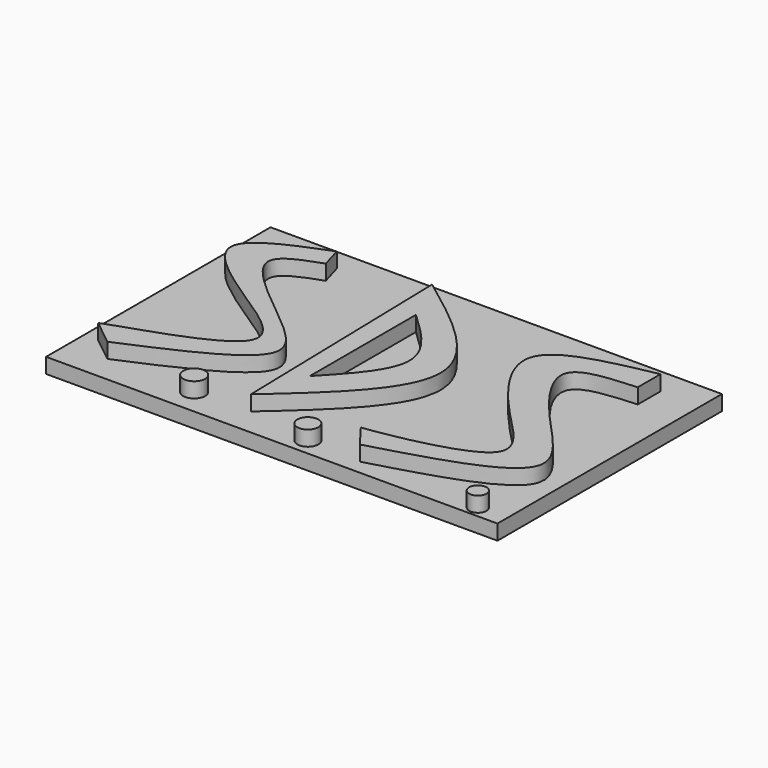
from build123d import *

# Parameters (mm, degrees)
F3_DEPTH = 12.7
F4_DEPTH = 12.7
F5_DEPTH = 12.7
F6_W     = 189.4590184093
F6_H     = 117.7560687065
F7_DEPTH = 6.35
F8_R     = 4.6041811727
F8_R_2   = 4.424061419
F8_R_3   = 3.6468937029
F9_DEPTH = 6.35


with BuildPart() as f3:
    # F0 (on Top) → F3 (new body)
    with BuildSketch(Plane.XY):
        with BuildLine():
            Line((-59.4609826803, 36.288689822), (-62.0842650533, 45.3244261444))
            add(Edge.make_bspline(
                [(-62.0842650533, 45.3244261444), (-76.3669330782, 39.6868441897), (-105.7448762698, 28.0909321294), (-64.4918275462, 0.7228788045), (-24.7548755706, -25.0754315136), (-93.4949776884, -42.5917245464), (-91.1362632101, -43.5001144041), (-90.9403264523, -43.5755737126)],
                knots=[0, 0, 0, 0, 0.2335267828, 0.480339986, 0.6931834494, 0.9745129643, 1, 1, 1, 1], degree=3))
            Line((-90.9403264523, -43.5755737126), (-80.7386860251, -51.7368838191))
            add(Edge.make_bspline(
                [(-59.4609826803, 36.288689822), (-67.4253888039, 33.4956167621), (-87.5836308704, 26.4262330595), (-42.3735586434, -5.2578557722), (-23.9135235399, -27.3126732704), (-58.9828392703, -42.3859315549), (-80.7386860251, -51.7368838191)],
                knots=[0, 0, 0, 0, 0.1900652595, 0.4810630511, 0.6780686335, 1, 1, 1, 1], degree=3))
        make_face()
    extrude(amount=F3_DEPTH)


with BuildPart() as f4:
    # F1 (on Top) → F4 (new body)
    with BuildSketch(Plane.XY):
        with BuildLine():
            add(Edge.make_bspline(
                [(-23.0265576392, 46.4903302491), (-2.6472799904, 31.3247734038), (38.4919362924, 0.7103849129), (-0.8445311949, -33.9532307058), (-20.6947550178, -51.4454096556)],
                knots=[0, 0, 0, 0, 0.4953735022, 1, 1, 1, 1], degree=3))
            Line((-23.0265576392, 46.4903302491), (-20.6947550178, -51.4454096556))
        make_face()
        with BuildLine():
            Line((-13.6993452907, -29.2932782322), (-13.6993452907, 26.3785235584))
            add(Edge.make_bspline(
                [(-13.6993452907, 26.3785235584), (-4.4824398683, 17.7391465856), (14.2904119764, 0.1425958444), (-4.2577650903, -19.3638900203), (-13.6993452907, -29.2932782322)],
                knots=[0, 0, 0, 0, 0.4909699122, 1, 1, 1, 1], degree=3))
        make_face(mode=Mode.SUBTRACT)
    extrude(amount=F4_DEPTH)


with BuildPart() as f5:
    # F2 (on Top) → F5 (new body)
    with BuildSketch(Plane.XY):
        with BuildLine():
            Line((75.2006545663, 31.6250808537), (75.2006545663, 43.5755737126))
            add(Edge.make_bspline(
                [(75.2006545663, 43.5755737126), (56.5777478813, 39.8688188665), (20.0832153378, 32.6048461876), (51.7347867803, -8.9273077443), (85.7886877069, -38.0543402289), (26.1027467349, -47.0160293906), (22.1521314234, -47.3647527397)],
                knots=[0, 0, 0, 0, 0.2555612663, 0.5008127413, 0.7055319989, 0.9705506898, 0.9705506898, 0.9705506898, 0.9705506898], degree=3))
            Line((22.1521314234, -47.3647527397), (29.439015314, -56.9834411144))
            add(Edge.make_bspline(
                [(75.2006545663, 31.6250808537), (64.0851156024, 30.9276837233), (40.294095329, 29.4350175267), (66.0785582397, -5.2614639278), (100.7634719015, -36.9686299494), (55.4687942528, -49.679058648), (29.439015314, -56.9834411144)],
                knots=[0, 0, 0, 0, 0.2071581808, 0.4433887098, 0.6801286687, 1, 1, 1, 1], degree=3))
        make_face()
    extrude(amount=F5_DEPTH)


with BuildPart() as f7:
    # F6 (on Top) → F7 (new body)
    with BuildSketch(Plane.XY):
        with Locations((-2.6280246675, -4.2263939977)):
            Rectangle(F6_W, F6_H)
    extrude(amount=F7_DEPTH)

    # F8 (on face) → F9 (join)
    with BuildSketch(Plane.XY.offset(6.35)):
        with Locations((-43.8379943371, -52.295692265)):
            Circle(F8_R)
        with Locations((6.7707402632, -55.9106059372)):
            Circle(F8_R_2)
        with Locations((80.0329074264, -58.3205446601)):
            Circle(F8_R_3)
    extrude(amount=F9_DEPTH)


solid = Compound([f3.part, f4.part, f5.part, f7.part])
